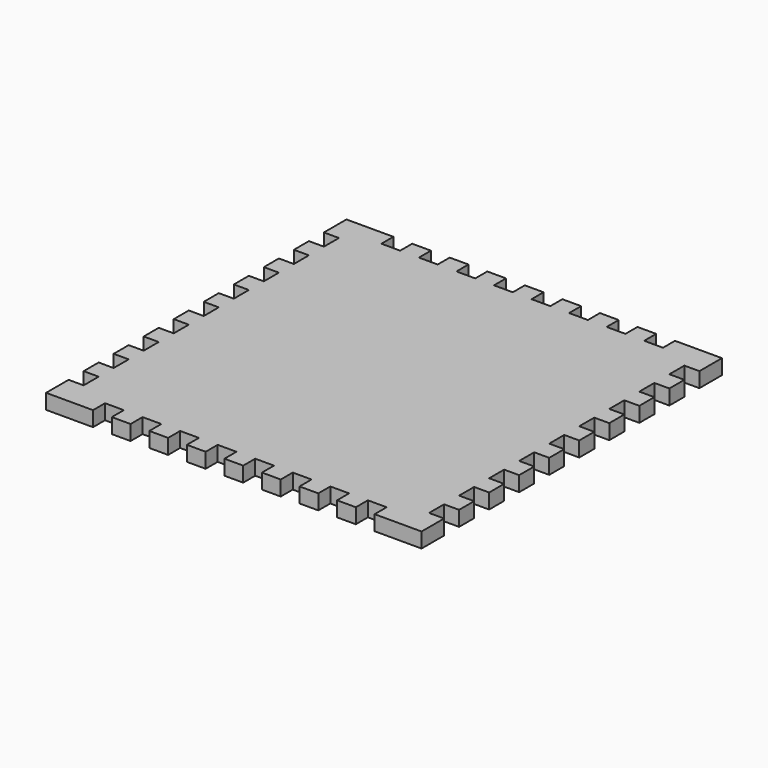
from build123d import *

# Parameters (mm, degrees)
F1_DEPTH = 10.16


with BuildPart() as f1:
    # F0 (on Top) → F1 (new body)
    with BuildSketch(Plane.XY):
        Polygon((31.75, 0), (0, 0), (0, -19.05), (10.16, -19.05), (10.16, -31.75), (0, -31.75), (0, -44.45), (10.16, -44.45), (10.16, -57.15), (0, -57.15), (0, -69.85), (10.16, -69.85), (10.16, -82.55), (0, -82.55), (0, -95.25), (10.16, -95.25), (10.16, -107.95), (0, -107.95), (0, -120.65), (10.16, -120.65), (10.16, -133.35), (0, -133.35), (0, -146.05), (10.16, -146.05), (10.16, -158.75), (0, -158.75), (0, -171.45), (10.16, -171.45), (10.16, -184.15), (0, -184.15), (0, -196.85), (10.16, -196.85), (10.16, -209.55), (0, -209.55), (0, -222.25), (10.16, -222.25), (10.16, -234.95), (0, -234.95), (0, -254), (31.75, -254), (31.75, -243.84), (44.45, -243.84), (44.45, -254), (57.15, -254), (57.15, -243.84), (69.85, -243.84), (69.85, -254), (82.55, -254), (82.55, -243.84), (95.25, -243.84), (95.25, -254), (107.95, -254), (107.95, -243.84), (120.65, -243.84), (120.65, -254), (133.35, -254), (133.35, -243.84), (146.05, -243.84), (146.05, -254), (158.75, -254), (158.75, -243.84), (171.45, -243.84), (171.45, -254), (184.15, -254), (184.15, -243.84), (196.85, -243.84), (196.85, -254), (209.55, -254), (209.55, -243.84), (222.25, -243.84), (222.25, -254), (254, -254), (254, -234.95), (243.84, -234.95), (243.84, -222.25), (254, -222.25), (254, -209.55), (243.84, -209.55), (243.84, -196.85), (254, -196.85), (254, -184.15), (243.84, -184.15), (243.84, -171.45), (254, -171.45), (254, -158.75), (243.84, -158.75), (243.84, -146.05), (254, -146.05), (254, -133.35), (243.84, -133.35), (243.84, -120.65), (254, -120.65), (254, -107.95), (243.84, -107.95), (243.84, -95.25), (254, -95.25), (254, -82.55), (243.84, -82.55), (243.84, -69.85), (254, -69.85), (254, -57.15), (243.84, -57.15), (243.84, -44.45), (254, -44.45), (254, -31.75), (243.84, -31.75), (243.84, -19.05), (254, -19.05), (254, 0), (222.25, 0), (222.25, -10.16), (209.55, -10.16), (209.55, 0), (196.85, 0), (196.85, -10.16), (184.15, -10.16), (184.15, 0), (171.45, 0), (171.45, -10.16), (158.75, -10.16), (158.75, 0), (146.05, 0), (146.05, -10.16), (133.35, -10.16), (133.35, 0), (120.65, 0), (120.65, -10.16), (107.95, -10.16), (107.95, 0), (95.25, 0), (95.25, -10.16), (82.55, -10.16), (82.55, 0), (69.85, 0), (69.85, -10.16), (57.15, -10.16), (57.15, 0), (44.45, 0), (44.45, -10.16), (31.75, -10.16), align=None)
    extrude(amount=F1_DEPTH)


solid = f1.part
